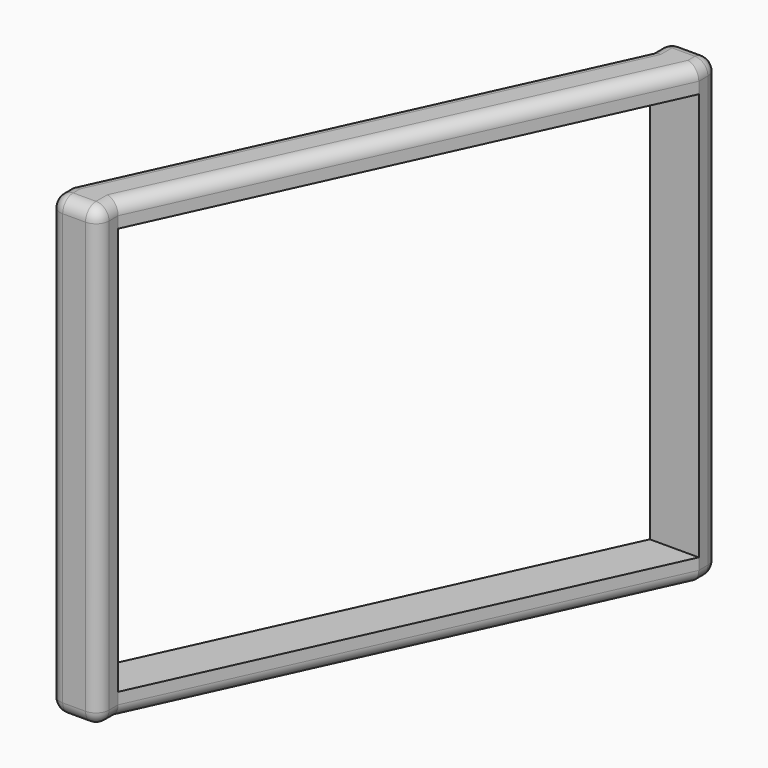
from build123d import *

# Parameters (mm, degrees)
PAD_DEPTH    = 1.5
SKETCH001_W  = 3
SKETCH001_H  = 1.5
PAD001_DEPTH = 25
PAD002_DEPTH = 1.5
FILLET_R     = 0.8


with BuildPart() as part:
    # Sketch → Pad (new body)
    with BuildSketch(Plane.XY):
        Polygon((0, 0), (0, 1.5), (-3, 1.5), (-3, 0), (-16, -28.25), (-16, -29.75), (-13, -29.75), (-13, -28.25), align=None)
    extrude(amount=PAD_DEPTH)

    # Sketch001 (on Face10 of Pad) → Pad001 (join)
    with BuildSketch(Plane.XY.offset(1.5)):
        with Locations((-1.5, 0.75)):
            Rectangle(SKETCH001_W, SKETCH001_H)
        with Locations((-14.5, -29)):
            Rectangle(SKETCH001_W, SKETCH001_H)
    extrude(amount=PAD001_DEPTH)

    # Sketch002 (on Face16 of Pad001) → Pad002 (join)
    with BuildSketch(Plane.XY.offset(26.5)):
        Polygon((-16, -28.25), (-3, 0), (-3, 1.5), (0, 1.5), (0, 0), (-13, -28.25), (-13, -29.75), (-16, -29.75), align=None)
    extrude(amount=PAD002_DEPTH)

    # Fillet
    fillet_edges = [part.edges().sort_by_distance(p)[0] for p in [
        (-16, -29.75, 14),
        (-13, -29.75, 14),
        (-14.5, -29.75, 0),
        (-14.5, -29.75, 28),
        (0, 1.5, 14),
        (-1.5, 1.5, 28),
        (-3, 1.5, 14),
        (-1.5, 1.5, 0),
        (0, 0.75, 0),
        (-6.5, -14.125, 0),
        (-13, -29, 0),
        (-3, 0.75, 0),
        (-9.5, -14.125, 0),
        (-16, -29, 0),
        (0, 0.75, 28),
        (-6.5, -14.125, 28),
        (-13, -29, 28),
        (-3, 0.75, 28),
        (-9.5, -14.125, 28),
        (-16, -29, 28),
    ]]
    fillet(fillet_edges, radius=FILLET_R)


solid = part.part
